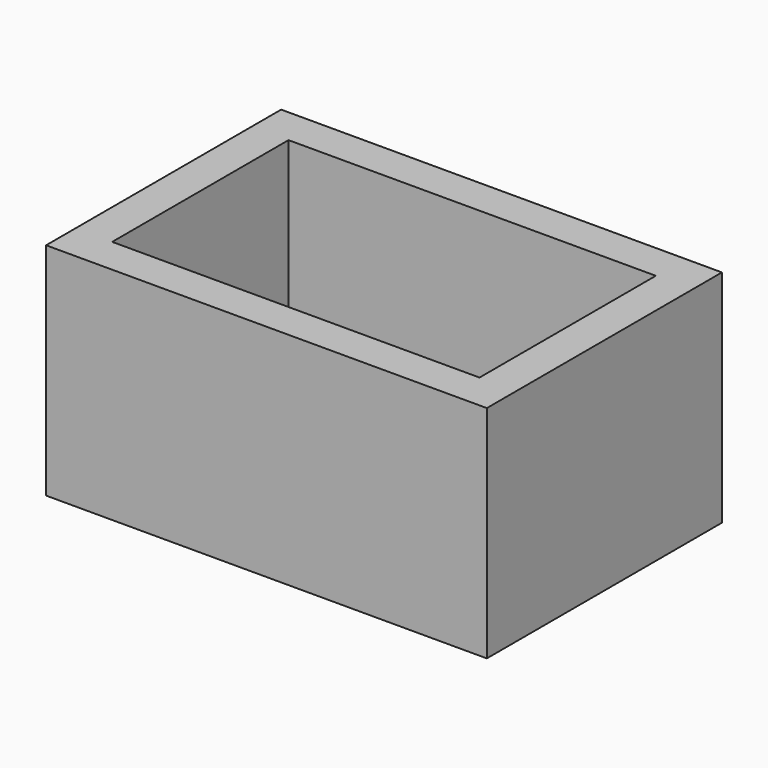
from build123d import *

# Parameters (mm, degrees)
F0_W     = 152.4
F0_H     = 76.2
F1_DEPTH = 101.6
F2_W     = 127
F2_H     = 76.2
F3_DEPTH = 63.5
F4_W     = 76.2
F4_H     = 25.4
F5_DEPTH = 12.7


with BuildPart() as f1:
    # F0 (on Front) → F1 (new body)
    with BuildSketch(Plane.XZ):
        with Locations((121.03101, -10.541003)):
            Rectangle(F0_W, F0_H)
    extrude(amount=F1_DEPTH)

    # F2 (on face) → F3 (cut)
    with BuildSketch(Plane.XY.offset(27.558997)):
        with Locations((121.03101, -50.8)):
            Rectangle(F2_W, F2_H)
    extrude(amount=-F3_DEPTH, mode=Mode.SUBTRACT)

    # F4 (on face) → F5 (cut)
    with BuildSketch(Plane.XY.offset(-35.941003)):
        with Locations((121.03101, -50.8)):
            Rectangle(F4_W, F4_H)
    extrude(amount=-F5_DEPTH, mode=Mode.SUBTRACT)


solid = f1.part
